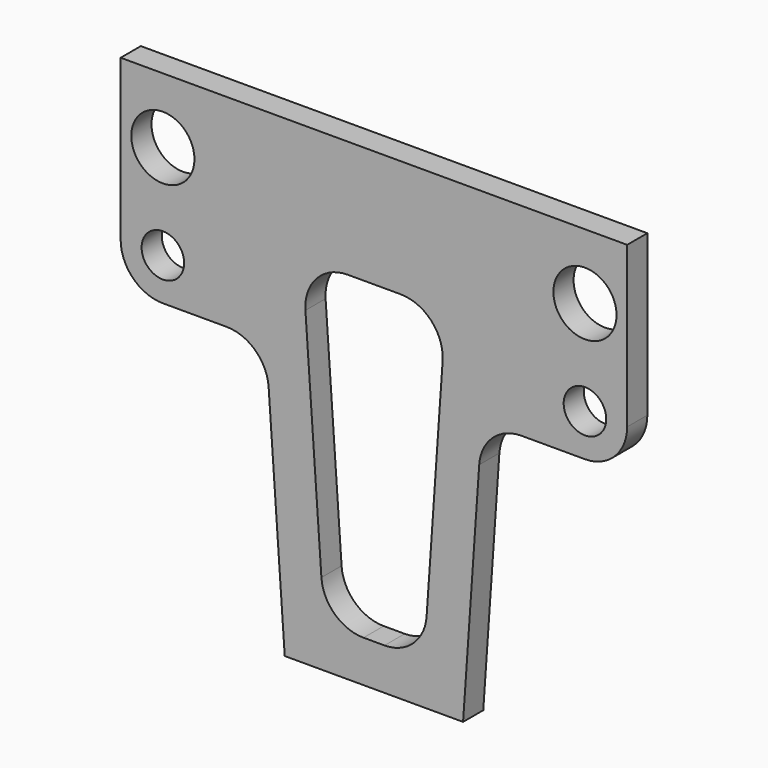
from build123d import *

# Parameters (mm, degrees)
F0_R     = 1.6002
F0_R_2   = 2.375179
F1_DEPTH = 1.89738


with BuildPart() as f1:
    # F0 (on Front) → F1 (new body)
    with BuildSketch(Plane.XZ):
        with BuildLine():
            Line((30.804955, 27.38282), (-7.295045, 27.38282))
            Line((-7.295045, 27.38282), (-7.295045, 15.329635))
            ThreePointArc((-7.295045, 15.329635), (-6.365109, 13.084571), (-4.120045, 12.154635))
            Line((-4.120045, 12.154635), (0.667936, 12.154635))
            ThreePointArc((0.667936, 12.154635), (2.833681, 11.30131), (3.835278, 9.200021))
            Line((3.835278, 9.200021), (5.047635, -8.223763))
            Line((5.047635, -8.223763), (18.462275, -8.223763))
            Line((18.462275, -8.223763), (19.674632, 9.200021))
            ThreePointArc((19.674632, 9.200021), (20.676229, 11.30131), (22.841974, 12.154635))
            Line((22.841974, 12.154635), (27.629955, 12.154635))
            ThreePointArc((27.629955, 12.154635), (29.875019, 13.084571), (30.804955, 15.329635))
            Line((30.804955, 15.329635), (30.804955, 27.38282))
        make_face()
        with BuildLine():
            ThreePointArc((10.973398, -5.08104), (8.807653, -4.227715), (7.806056, -2.126426))
            Line((7.806056, -2.126426), (6.602346, 15.173074))
            ThreePointArc((6.602346, 15.173074), (7.448014, 17.559204), (9.769688, 18.568459))
            Line((9.769688, 18.568459), (13.755501, 18.568459))
            ThreePointArc((13.755501, 18.568459), (16.077176, 17.559204), (16.922843, 15.173074))
            Line((16.922843, 15.173074), (15.719134, -2.126426))
            ThreePointArc((15.719134, -2.126426), (14.717537, -4.227715), (12.551792, -5.08104))
            Line((12.551792, -5.08104), (10.973398, -5.08104))
        make_face(mode=Mode.SUBTRACT)
        with Locations((-4.120045, 15.329635)):
            Circle(F0_R, mode=Mode.SUBTRACT)
        with Locations((-4.120045, 22.467641)):
            Circle(F0_R_2, mode=Mode.SUBTRACT)
        with Locations((27.629955, 15.329635)):
            Circle(F0_R, mode=Mode.SUBTRACT)
        with Locations((27.629955, 22.467641)):
            Circle(F0_R_2, mode=Mode.SUBTRACT)
    extrude(amount=F1_DEPTH)


solid = f1.part
